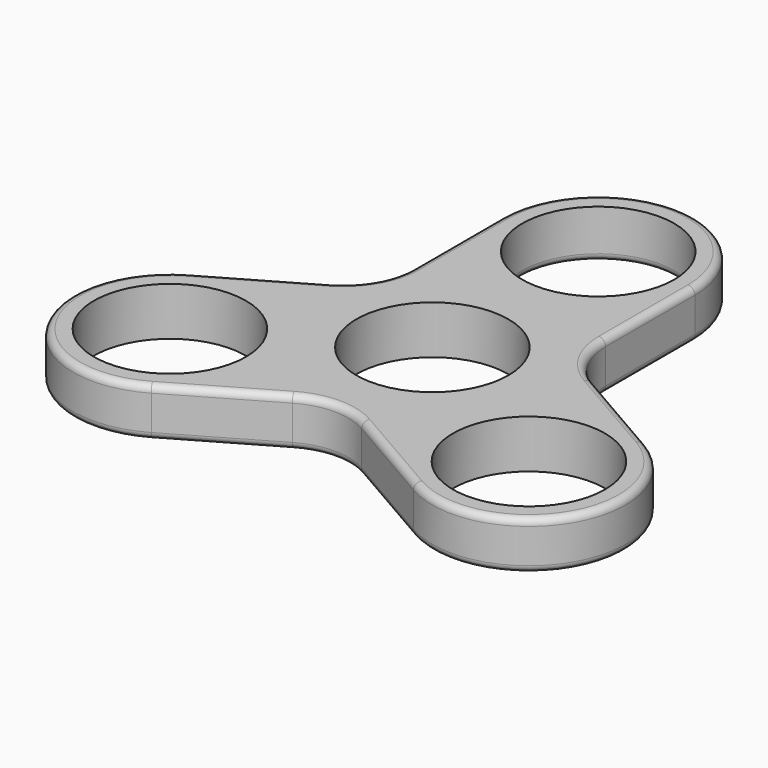
from build123d import *

# Parameters (mm, degrees)
F0_R     = 11
F1_DEPTH = 3.5
F2_R     = 1
F3_R     = 1


with BuildPart() as f1:
    # F0 (on Top) → F1 (new body, symmetric)
    with BuildSketch(Plane.XY):
        with BuildLine():
            ThreePointArc((-32.980762, -2.875644), (-38.105118, -22), (-18.980762, -27.124356))
            Line((-18.980762, -27.124356), (-5, -19.052559))
            ThreePointArc((-5, -19.052559), (0, -17.712813), (5, -19.052559))
            Line((5, -19.052559), (18.980762, -27.124356))
            ThreePointArc((18.980762, -27.124356), (38.105118, -22), (32.980762, -2.875644))
            Line((32.980762, -2.875644), (19, 5.196152))
            ThreePointArc((19, 5.196152), (15.339746, 8.856406), (14, 13.856406))
            Line((14, 13.856406), (14, 30))
            ThreePointArc((14, 30), (0, 44), (-14, 30))
            Line((-14, 30), (-14, 13.856406))
            ThreePointArc((-14, 13.856406), (-15.339746, 8.856406), (-19, 5.196152))
            Line((-19, 5.196152), (-32.980762, -2.875644))
        make_face()
        with Locations((-25.980762, -15)):
            Circle(F0_R, mode=Mode.SUBTRACT)
        Circle(F0_R, mode=Mode.SUBTRACT)
        with Locations((25.980762, -15)):
            Circle(F0_R, mode=Mode.SUBTRACT)
        with Locations((0, 30)):
            Circle(F0_R, mode=Mode.SUBTRACT)
    extrude(amount=F1_DEPTH, both=True)

    # F2
    f2_edges = [f1.edges().sort_by_distance(p)[0] for p in [
        (0, 44, 3.5),
        (14, 21.928203, 3.5),
        (15.339746, 8.856406, 3.5),
        (25.990381, 1.160254, 3.5),
        (38.105118, -22, 3.5),
        (11.990381, -23.088457, 3.5),
        (0, -17.712813, 3.5),
        (-11.990381, -23.088457, 3.5),
        (-38.105118, -22, 3.5),
        (-25.990381, 1.160254, 3.5),
        (-15.339746, 8.856406, 3.5),
        (-14, 21.928203, 3.5),
    ]]
    fillet(f2_edges, radius=F2_R)

    # F3
    f3_edges = [f1.edges().sort_by_distance(p)[0] for p in [
        (-11.990381, -23.088457, -3.5),
        (-38.105118, -22, -3.5),
        (-25.990381, 1.160254, -3.5),
        (-15.339746, 8.856406, -3.5),
        (-14, 21.928203, -3.5),
        (-11, 30, -3.5),
        (14, 21.928203, -3.5),
        (15.339746, 8.856406, -3.5),
        (25.990381, 1.160254, -3.5),
        (38.105118, -22, -3.5),
        (11.990381, -23.088457, -3.5),
        (0, -17.712813, -3.5),
    ]]
    fillet(f3_edges, radius=F3_R)


solid = f1.part
